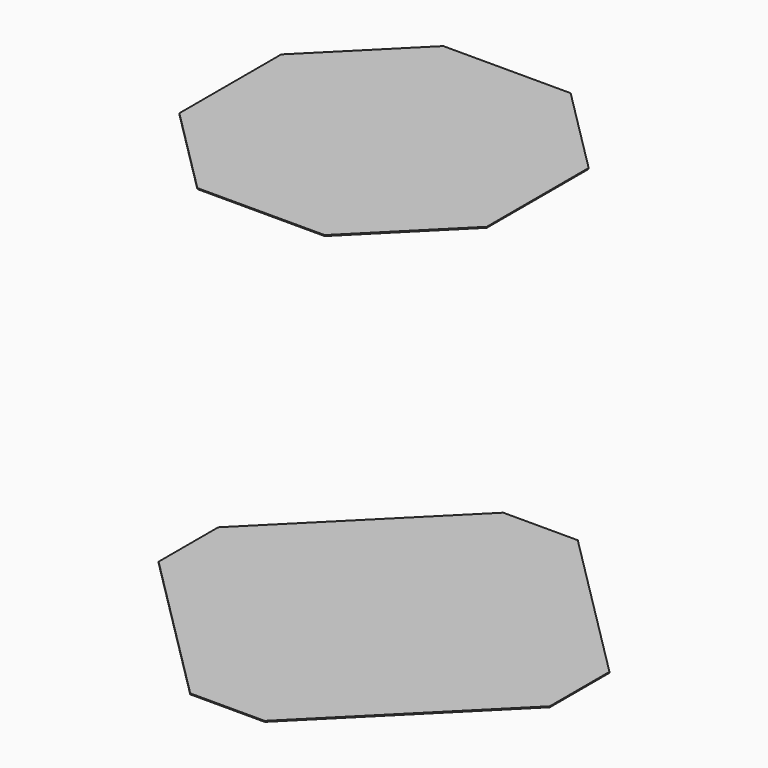
from build123d import *

# Parameters (mm, degrees)
F20_DEPTH = 1
F22_DEPTH = 1


with BuildPart() as f20:
    # F19 (on offset) → F20 (new body)
    with BuildSketch(Plane.XY.offset(450)):
        Polygon((-68.345238, 165), (-165, 68.345238), (-165, -68.345238), (-68.345238, -165), (68.345238, -165), (165, -68.345238), (165, 68.345238), (68.345238, 165), align=None)
    extrude(amount=F20_DEPTH)


with BuildPart() as f22:
    # F21 (on Top) → F22 (new body)
    with BuildSketch(Plane.XY):
        Polygon((-210, 40), (-210, -40), (-40, -210), (40, -210), (210, -40), (210, 40), (40, 210), (-40, 210), align=None)
    extrude(amount=F22_DEPTH)


solid = Compound([f20.part, f22.part])
